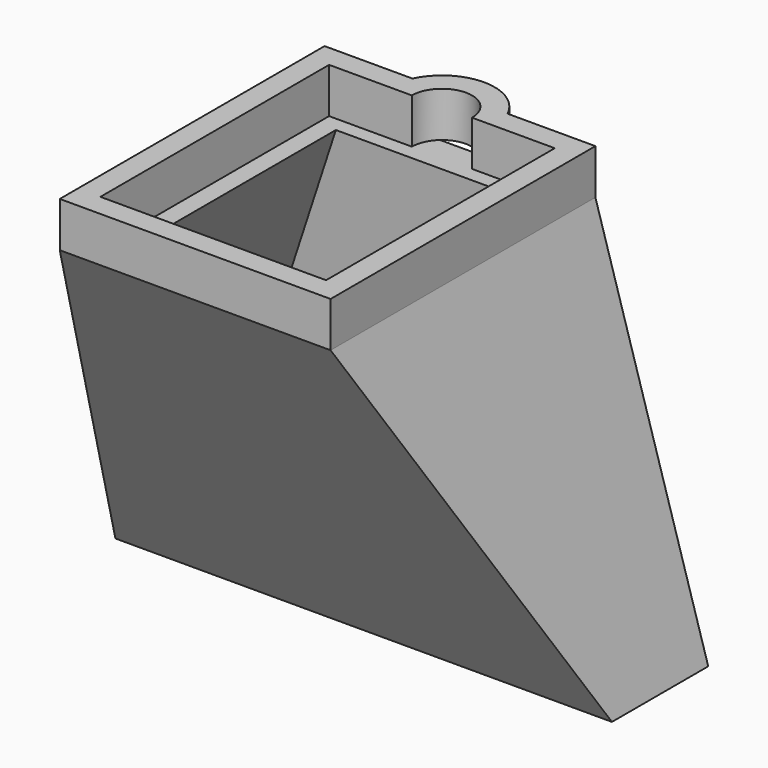
from build123d import *

# Parameters (mm, degrees)
F2_DEPTH = 3
F3_W     = 18
F3_H     = 22
F5_W     = 33
F5_H     = 8
F7_W     = 30
F7_H     = 5
F6_W     = 12.5
F6_H     = 17


with BuildPart() as f2:
    # F1 (on Top) → F2 (new body)
    with BuildSketch(Plane.XY):
        with BuildLine():
            Line((-9, -11), (9, -11))
            Line((9, -11), (9, 11))
            Line((9, 11), (3.1622776602, 11))
            ThreePointArc((3.1622776602, 11), (0, 13), (-3.1622776602, 11))
            Line((-3.1622776602, 11), (-9, 11))
            Line((-9, 11), (-9, -11))
        make_face()
        with BuildLine():
            Line((7.5, 9.5), (7.5, -9.5))
            Line((7.5, -9.5), (-7.5, -9.5))
            Line((-7.5, -9.5), (-7.5, 9.5))
            Line((-7.5, 9.5), (-2, 9.5))
            ThreePointArc((-2, 9.5), (0, 11.5), (2, 9.5))
            Line((2, 9.5), (7.5, 9.5))
        make_face(mode=Mode.SUBTRACT)
    extrude(amount=F2_DEPTH)

    # F3 (on Top) → F8 section 0
    with BuildSketch(Plane.XY):
        Rectangle(F3_W, F3_H)
    # F5 (on offset) → F8 section 1
    with BuildSketch(Plane.XY.offset(-25)):
        with Locations((0, 7)):
            Rectangle(F5_W, F5_H)
    loft()

    # F7 (on face) → F9 section 0
    with BuildSketch(Plane.XY.offset(-25)):
        with Locations((0, 7)):
            Rectangle(F7_W, F7_H)
    # F6 (on face) → F9 section 1
    with BuildSketch(Plane.XY):
        Rectangle(F6_W, F6_H)
    loft(mode=Mode.SUBTRACT)


solid = f2.part
